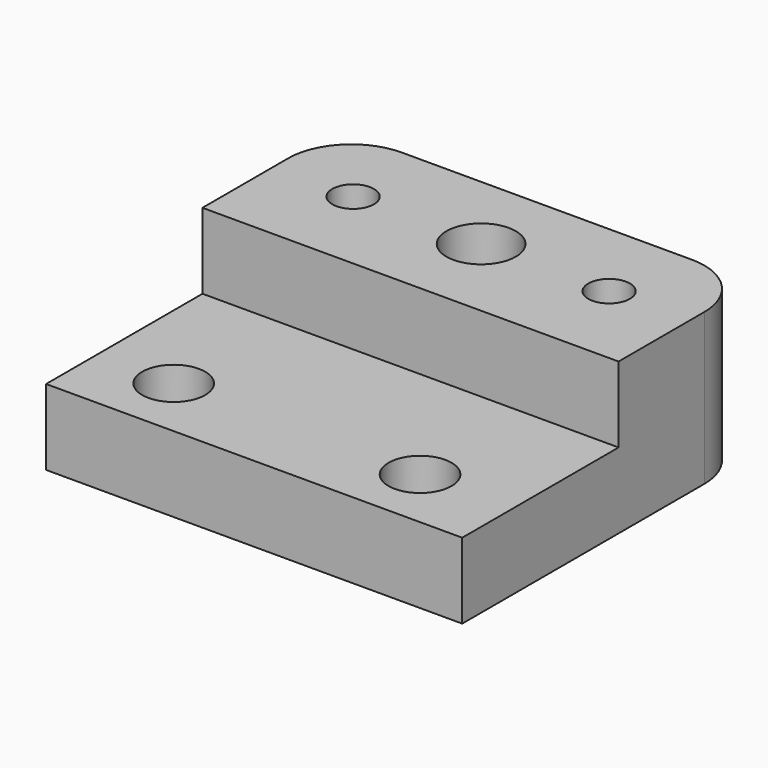
from build123d import *

# Parameters (mm, degrees)
F0_R     = 2.75
F0_R_2   = 1.65
F0_W     = 33
F0_H     = 15.5
F0_R_3   = 2.5
F1_DEPTH = 6
F2_R     = 5
F3_DEPTH = 2
F4_DEPTH = 25


with BuildPart() as f1:
    # F0 (on Top) → F1 (new body, symmetric)
    with BuildSketch(Plane.XY):
        Polygon((4, 14.5), (-4, 14.5), (-4, 10.123076), (-4, 5.690599), (0, 3.381198), (4, 5.690599), (4, 10.309401), align=None)
        with Locations((0, 8)):
            Circle(F0_R, mode=Mode.SUBTRACT)
        Polygon((-4, 14.5), (-16.5, 14.5), (-16.5, 1), (16.5, 1), (16.5, 14.5), (4, 14.5), (4, 10.309401), (4, 5.690599), (0, 3.381198), (-4, 5.690599), (-4, 10.123076), align=None)
        with Locations((-10.15, 8)):
            Circle(F0_R_2, mode=Mode.SUBTRACT)
        with Locations((10.15, 8)):
            Circle(F0_R_2, mode=Mode.SUBTRACT)
        with Locations((0, -6.75)):
            Rectangle(F0_W, F0_H)
        with Locations((-10.379309, -9.5)):
            Circle(F0_R_3, mode=Mode.SUBTRACT)
        with Locations((9.157613, -9.5)):
            Circle(F0_R_3, mode=Mode.SUBTRACT)
    extrude(amount=F1_DEPTH, both=True)

    # F2
    f2_edges = [f1.edges().sort_by_distance(p)[0] for p in [
        (16.5, 14.5, 0),
        (-16.5, 14.5, 0),
    ]]
    fillet(f2_edges, radius=F2_R)

    # F0 (on Top) → F3 (cut, symmetric)
    with BuildSketch(Plane.XY):
        Polygon((4, 14.5), (-4, 14.5), (-4, 10.123076), (-4, 5.690599), (0, 3.381198), (4, 5.690599), (4, 10.309401), align=None)
        with Locations((0, 8)):
            Circle(F0_R, mode=Mode.SUBTRACT)
    extrude(amount=F3_DEPTH, both=True, mode=Mode.SUBTRACT)

    # F0 (on Top) → F4 (cut)
    with BuildSketch(Plane.XY):
        with Locations((0, -6.75)):
            Rectangle(F0_W, F0_H)
        with Locations((-10.379309, -9.5)):
            Circle(F0_R_3, mode=Mode.SUBTRACT)
        with Locations((9.157613, -9.5)):
            Circle(F0_R_3, mode=Mode.SUBTRACT)
    extrude(amount=F4_DEPTH, mode=Mode.SUBTRACT)


solid = f1.part
